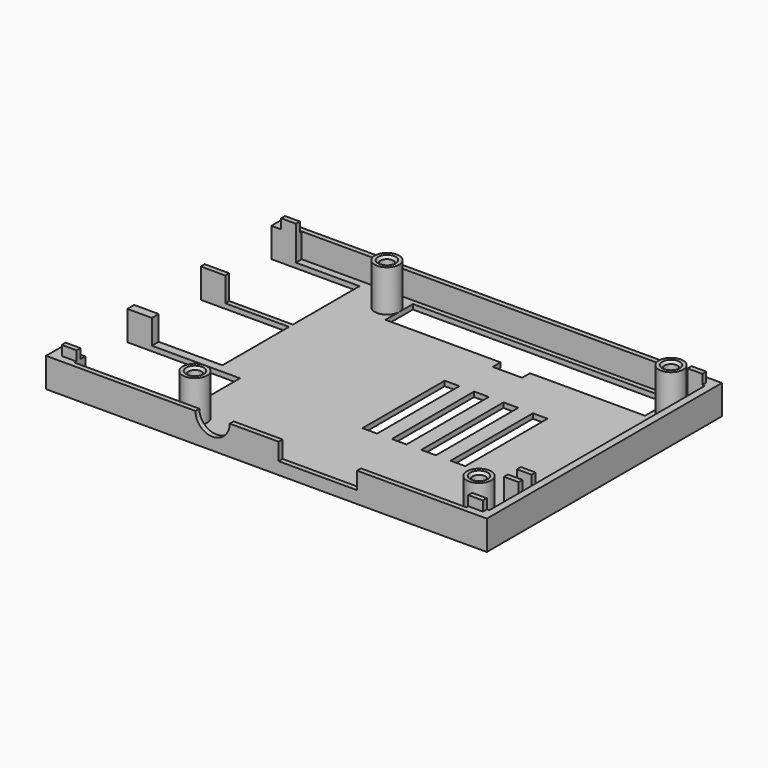
from build123d import *

# Parameters (mm, degrees)
SKETCH_W      = 3
SKETCH_H      = 21
PAD_DEPTH     = 1
SKETCH001_W   = 5
SKETCH001_H   = 1.75
SKETCH001_H_2 = 1
PAD001_DEPTH  = 5
SKETCH002_W   = 3
SKETCH002_H   = 1
PAD002_DEPTH  = 2
SKETCH003_R   = 2.5
SKETCH003_R_2 = 1.3
PAD003_DEPTH  = 8.5
SKETCH004_W   = 16
SKETCH004_H   = 3.5
POCKET_DEPTH  = 1
CHAMFER_SIZE  = 0.5
SKETCH005_W   = 3
SKETCH005_H   = 1
PAD004_DEPTH  = 7


with BuildPart() as part:
    # Sketch → Pad (new body)
    with BuildSketch(Plane.XY):
        Polygon((-45, 30), (45, 30), (45, -30), (-45, -30), (-45, -26.25), (-22, -26.25), (-22, -9.25), (-45, -9.25), (-45, -7.5), (-27, -7.5), (-27, 9.5), (-45, 9.5), (-45, 10.5), (-27, 10.5), (-27, 27.5), (-45, 27.5), align=None)
        Polygon((36.5, 21), (36.5, 28), (-16.5, 28), (-16.5, 21), (7, 21), (7, 19), (13, 19), (13, 21), align=None, mode=Mode.SUBTRACT)
        with Locations((5.5, 0)):
            Rectangle(SKETCH_W, SKETCH_H, mode=Mode.SUBTRACT)
        with Locations((11.5, 0)):
            Rectangle(SKETCH_W, SKETCH_H, mode=Mode.SUBTRACT)
        with Locations((17.5, 0)):
            Rectangle(SKETCH_W, SKETCH_H, mode=Mode.SUBTRACT)
        with Locations((23.5, 0)):
            Rectangle(SKETCH_W, SKETCH_H, mode=Mode.SUBTRACT)
    extrude(amount=PAD_DEPTH)

    # Sketch001 → Pad001 (new body)
    with BuildSketch(Plane.XY.offset(1)):
        with Locations((-42.5, -8.375)):
            Rectangle(SKETCH001_W, SKETCH001_H)
        with Locations((-42.5, 10)):
            Rectangle(SKETCH001_W, SKETCH001_H_2)
        Polygon((-45, 30), (45, 30), (45, -30), (-45, -30), (-45, -26.25), (-40, -26.25), (-40, -29), (40, -29), (40, -27.5), (43.5, -27.5), (43.5, 27.5), (40, 27.5), (40, 29), (-40, 29), (-40, 27.5), (-45, 27.5), align=None)
    extrude(amount=PAD001_DEPTH)

    # Sketch002 → Pad002 (new body)
    with BuildSketch(Plane.XY.offset(6)):
        with Locations((41.5, 28)):
            Rectangle(SKETCH002_W, SKETCH002_H)
        with Locations((-41.5, 28)):
            Rectangle(SKETCH002_W, SKETCH002_H)
        with Locations((-41.5, -28)):
            Rectangle(SKETCH002_W, SKETCH002_H)
        with Locations((41.5, -28)):
            Rectangle(SKETCH002_W, SKETCH002_H)
    extrude(amount=PAD002_DEPTH)

    # Sketch003 → Pad003 (new body)
    with BuildSketch(Plane.XY.offset(1)):
        with Locations((-19, 24.5)):
            Circle(SKETCH003_R)
        with Locations((-19, 24.5)):
            Circle(SKETCH003_R_2, mode=Mode.SUBTRACT)
        with Locations((39, 24.5)):
            Circle(SKETCH003_R)
        with Locations((39, 24.5)):
            Circle(SKETCH003_R_2, mode=Mode.SUBTRACT)
        with Locations((-19, -24.5)):
            Circle(SKETCH003_R)
        with Locations((-19, -24.5)):
            Circle(SKETCH003_R_2, mode=Mode.SUBTRACT)
        with Locations((39, -24.5)):
            Circle(SKETCH003_R)
        with Locations((39, -24.5)):
            Circle(SKETCH003_R_2, mode=Mode.SUBTRACT)
    extrude(amount=PAD003_DEPTH)

    # Sketch004 → Pocket (cut)
    with BuildSketch(Plane.XZ.offset(30)):
        with BuildLine():
            ThreePointArc((-14.5, 6), (-11, 2.5), (-7.5, 6))
            Line((-14.5, 6), (-7.5, 6))
        make_face()
        with Locations((10.5, 4.25)):
            Rectangle(SKETCH004_W, SKETCH004_H)
    extrude(amount=-POCKET_DEPTH, mode=Mode.SUBTRACT)

    # Chamfer
    chamfer_edges = [part.edges().sort_by_distance(p)[0] for p in [
        (-20.3, 24.5, 9.5),
        (37.7, 24.5, 9.5),
        (37.7, -24.5, 9.5),
        (-20.3, -24.5, 9.5),
    ]]
    chamfer(chamfer_edges, length=CHAMFER_SIZE)

    # Sketch005 → Pad004 (new body)
    with BuildSketch(Plane.XY.offset(1)):
        with Locations((42, -16.2)):
            Rectangle(SKETCH005_W, SKETCH005_H)
        with Locations((42, -19.5)):
            Rectangle(SKETCH005_W, SKETCH005_H)
    extrude(amount=PAD004_DEPTH)


solid = part.part
